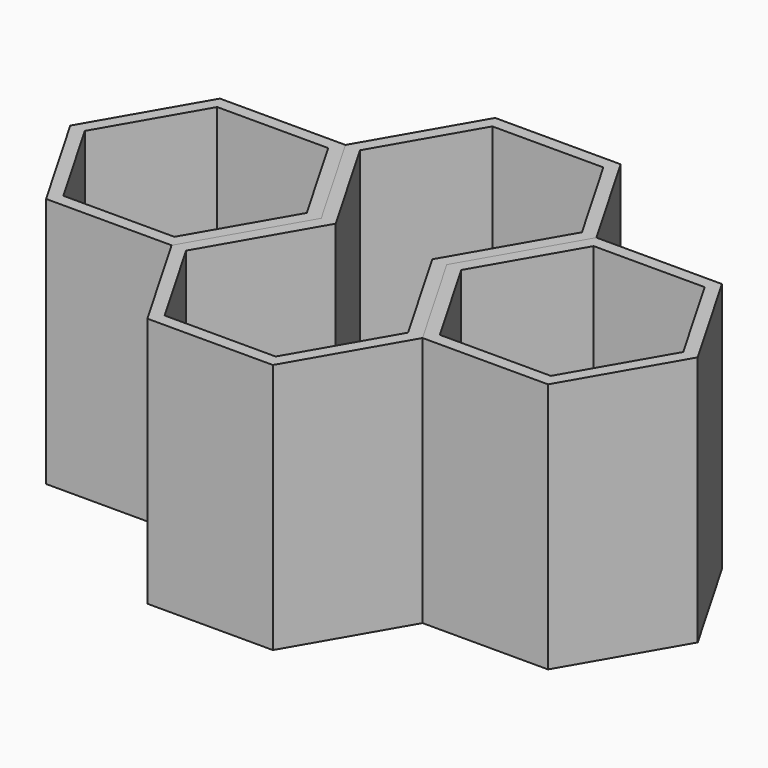
from build123d import *

# Parameters (mm, degrees)
F2_DEPTH = 25.4
F3_T     = -1.27
F3_2_T   = -1.27
F3_3_T   = -1.27


with BuildPart() as f2:
    # F1 (on Top) → F2 (new body)
    with BuildSketch(Plane.XY):
        Polygon((-12.7, 21.9970452561), (-25.4, 21.9970452561), (-31.75, 10.9985226281), (-25.4, 0), (-12.7, 0), (-6.35, 10.9985226281), align=None)
    extrude(amount=F2_DEPTH)

    # F3#2
    f3_2_openings = [f2.faces().sort_by_distance(p)[0] for p in [
        (-19.05, 10.998523, 25.4),
    ]]
    offset(amount=F3_2_T, openings=f3_2_openings)


with BuildPart() as f2b:
    # F1 (on Top) → F2, piece 2 (new body)
    with BuildSketch(Plane.XY):
        Polygon((12.7, 0), (25.4, 0), (31.75, 10.9985226281), (25.4, 21.9970452561), (12.7, 21.9970452561), (6.35, 10.9985226281), align=None)
    extrude(amount=F2_DEPTH)

    # F3#3
    f3_3_openings = [f2b.faces().sort_by_distance(p)[0] for p in [
        (19.05, 10.998523, 25.4),
    ]]
    offset(amount=F3_3_T, openings=f3_3_openings)


with BuildPart() as f2c:
    # F0 (on Top) → F2, piece 3 (new body)
    with BuildSketch(Plane.XY):
        Polygon((-6.35, 10.9985226281), (6.35, 10.9985226281), (12.7, 21.9970452561), (6.35, 32.9955678842), (-6.35, 32.9955678842), (-12.7, 21.9970452561), align=None)
        Polygon((6.35, -10.9985226281), (12.7, 0), (6.35, 10.9985226281), (-6.35, 10.9985226281), (-12.7, 0), (-6.35, -10.9985226281), align=None)
    extrude(amount=F2_DEPTH)

    # F3
    f3_openings = [f2c.faces().sort_by_distance(p)[0] for p in [
        (0, 10.998523, 25.4),
    ]]
    offset(amount=F3_T, openings=f3_openings, kind=Kind.INTERSECTION)


solid = Compound([f2.part, f2b.part, f2c.part])
